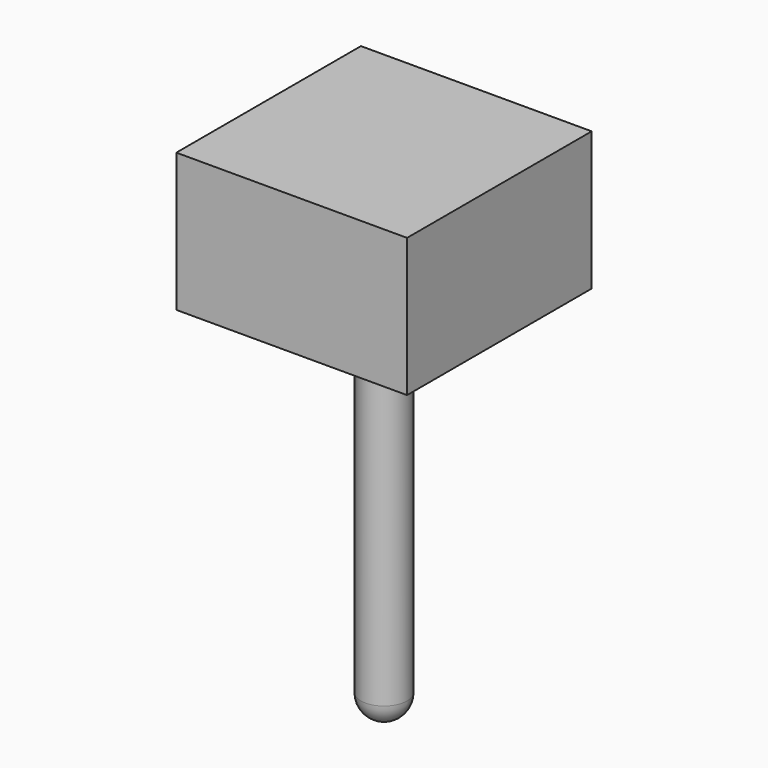
from build123d import *

# Parameters (mm, degrees)
F0_W     = 5
F0_H     = 5
F1_DEPTH = 3
F2_R     = 0.5
F3_DEPTH = 8
F4_R     = 0.5


with BuildPart() as f1:
    # F0 (on Top) → F1 (new body)
    with BuildSketch(Plane.XY):
        Rectangle(F0_W, F0_H)
    extrude(amount=F1_DEPTH)

    # F2 (on face) → F3 (join)
    with BuildSketch(Plane(origin=(0, 0, 0), x_dir=(1, 0, 0), z_dir=(0, 0, -1))):
        Circle(F2_R)
    extrude(amount=F3_DEPTH)

    # F4
    f4_edges = [f1.edges().sort_by_distance(p)[0] for p in [
        (-0.5, 0, -8),
    ]]
    fillet(f4_edges, radius=F4_R)


solid = f1.part
